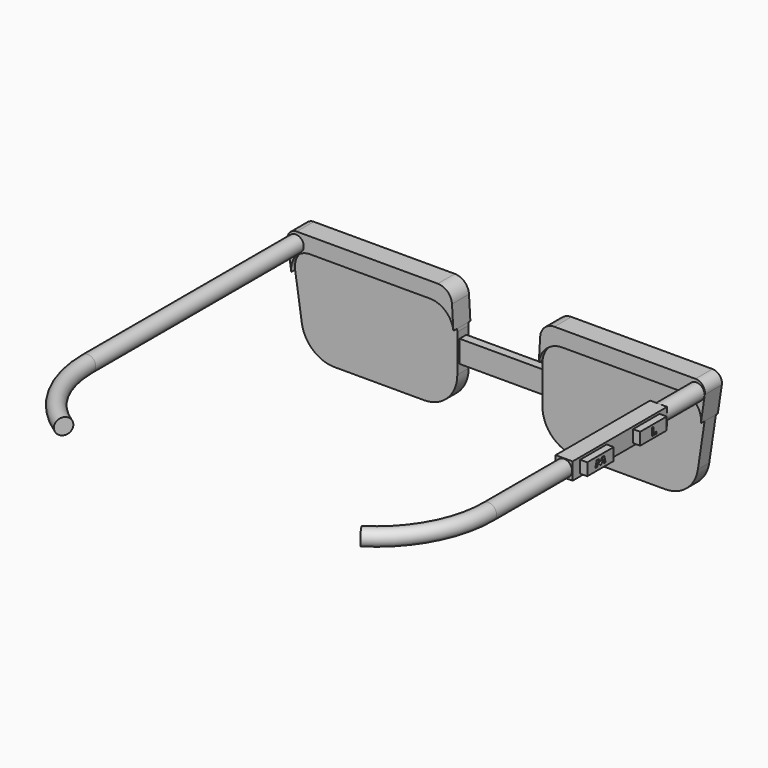
from build123d import *

# Parameters (mm, degrees)
F1_DEPTH      = 3.81
F0_W          = 22.86
F0_H          = 5.969
F2_DEPTH      = 3.048
F3_DEPTH      = 0.762
F5_DEPTH      = 1.27
F5_DEPTH_BACK = 4.445
F6_R          = 2.159
F7_DEPTH      = 69.85
F8_DEPTH      = 12.7
F10_DEPTH     = 31.75
F11_R         = 2.159
F12_DEPTH     = 25.4
F13_R         = 2.286
F14_DEPTH     = 1.27
F16_DEPTH     = 0.762
F18_DEPTH     = 0.381
F19_DEPTH     = 5.08
F21_W         = 5.3975
F21_H         = 1.651
F21_W_2       = 3.4925
F22_DEPTH     = 1.905
F23_W         = 1.016
F23_H         = 0.508
F24_DEPTH     = 0.635
F26_DEPTH     = 0.635
F27_R         = 2.159
F30_R         = 2.159


with BuildPart() as f1:
    # F0 (on Front) → F1 (new body)
    with BuildSketch(Plane.XZ):
        with BuildLine():
            Line((-22.8348751962, 50.0262716477), (-55.0360430985, 50.0262716477))
            ThreePointArc((-55.0360430985, 50.0262716477), (-58.8853633674, 48.2612578419), (-60.0598397711, 44.1927021468))
            Line((-60.0598397711, 44.1927021468), (-58.2605632022, 32.1975250211))
            ThreePointArc((-58.2605632022, 32.1975250211), (-55.2701448651, 26.7799611772), (-49.4689190252, 24.6262716477))
            Line((-49.4689190252, 24.6262716477), (-25.3748751962, 24.6262716477))
            ThreePointArc((-25.3748751962, 24.6262716477), (-19.0886959115, 27.2300923629), (-16.4848751962, 33.5162716477))
            Line((-16.4848751962, 33.5162716477), (-16.4848751962, 35.8022716477))
            Line((-16.4848751962, 35.8022716477), (-16.4848751962, 41.7712716477))
            Line((-16.4848751962, 41.7712716477), (-16.4848751962, 43.6762716477))
            ThreePointArc((-16.4848751962, 43.6762716477), (-18.3447471357, 48.1663997082), (-22.8348751962, 50.0262716477))
        make_face()
    extrude(amount=-F1_DEPTH)


with BuildPart() as f1b:
    # F0 (on Front) → F1, piece 2 (new body)
    with BuildSketch(Plane.XZ):
        with BuildLine():
            Line((6.3751248038, 43.6762716477), (6.3751248038, 41.7712716477))
            Line((6.3751248038, 41.7712716477), (6.3751248038, 35.8022716477))
            Line((6.3751248038, 35.8022716477), (6.3751248038, 33.5162716477))
            ThreePointArc((6.3751248038, 33.5162716477), (8.978945519, 27.2300923629), (15.2651248038, 24.6262716477))
            Line((15.2651248038, 24.6262716477), (39.3591686328, 24.6262716477))
            ThreePointArc((39.3591686328, 24.6262716477), (45.1603944727, 26.7799611772), (48.1508128098, 32.1975250211))
            Line((48.1508128098, 32.1975250211), (49.9500893786, 44.1927021468))
            ThreePointArc((49.9500893786, 44.1927021468), (48.7756129749, 48.2612578419), (44.9262927061, 50.0262716477))
            Line((44.9262927061, 50.0262716477), (12.7251248038, 50.0262716477))
            ThreePointArc((12.7251248038, 50.0262716477), (8.2349967432, 48.1663997082), (6.3751248038, 43.6762716477))
        make_face()
    extrude(amount=-F1_DEPTH)


with BuildPart() as f2:
    # F0 (on Front) → F2 (new body)
    with BuildSketch(Plane.XZ):
        with Locations((-5.0548751962, 38.7867716477)):
            Rectangle(F0_W, F0_H)
    extrude(amount=-F2_DEPTH)

    # F3 (cut): a face of the model
    f3_faces = [f2.faces().sort_by_distance(p)[0] for p in [
        (-5.0548751962, 0, 38.7867716477),
    ]]
    extrude(f3_faces, amount=-F3_DEPTH, mode=Mode.SUBTRACT)

    # F13 (on face) → F14 (cut)
    with BuildSketch(Plane(origin=(0, 3.048, 0), x_dir=(-1, 0, 0), z_dir=(0, 1, 0))):
        with Locations((5.0548751962, 38.7867716477)):
            Circle(F13_R)
    extrude(amount=-F14_DEPTH, mode=Mode.SUBTRACT)

    # F15 (on face) → F16 (join)
    with BuildSketch(Plane(origin=(0, 1.778, 0), x_dir=(-1, 0, 0), z_dir=(0, 1, 0))):
        Polygon((6.3248751962, 37.5182032585), (6.3248751962, 38.7867716477), (6.3248751962, 40.0567716477), (3.7975497544, 40.0567716477), (3.7975497544, 37.5182032585), align=None)
    extrude(amount=F16_DEPTH)

    # F17 (on face) → F18 (cut)
    with BuildSketch(Plane(origin=(0, 2.54, 0), x_dir=(-1, 0, 0), z_dir=(0, 1, 0))):
        Polygon((5.0427413614, 37.9825571542), (5.7490670054, 38.3690258498), (5.7675381194, 39.1739561486), (5.0796835892, 39.592417752), (4.3733579452, 39.2059490565), (4.3548868312, 38.4010187576), align=None)
    extrude(amount=-F18_DEPTH, mode=Mode.SUBTRACT)


with BuildPart() as f5:
    # F4 (on Front) → F5 (new body, two sides)
    with BuildSketch(Plane.XZ) as f5_sk:
        with BuildLine():
            ThreePointArc((-60.0598397711, 44.1927021468), (-58.8853633674, 48.2612578419), (-55.0360430985, 50.0262716477))
            Line((-55.0360430985, 50.0262716477), (-22.8348751962, 50.0262716477))
            ThreePointArc((-22.8348751962, 50.0262716477), (-18.6209529466, 48.4265726144), (-16.530182618, 44.4334714191))
            Line((-16.530182618, 44.4334714191), (-16.9026220807, 50.6578617088))
            ThreePointArc((-16.9026220807, 50.6578617088), (-18.0934385378, 53.2036623345), (-20.7058198953, 54.240295492))
            Line((-20.7058198953, 54.240295492), (-58.617562724, 54.240295492))
            ThreePointArc((-58.617562724, 54.240295492), (-60.5422228584, 53.3577885891), (-61.1294610603, 51.3235107415))
            Line((-61.1294610603, 51.3235107415), (-60.0598397711, 44.1927021468))
        make_face()
    extrude(amount=F5_DEPTH)
    extrude(f5_sk.sketch, amount=-F5_DEPTH_BACK)

    # F6 (on face) → F7 (join)
    with BuildSketch(Plane.XZ.offset(1.27)):
        with Locations((-58.8853633674, 51.3235107415)):
            Circle(F6_R)
    extrude(amount=F7_DEPTH)

    # F32: sweep along a path in F31
    with BuildLine(Plane.XY) as f32_path:
        ThreePointArc((-58.8853633674, -71.12), (-55.2003530631, -85.5832963729), (-45.043840045, -96.52))
    # F30 (on face) → F32 (sweep)
    with BuildSketch(Plane.XZ.offset(71.12)):
        with Locations((-58.8853633674, 51.3235107415)):
            Circle(F30_R)
    sweep(path=f32_path.line)


with BuildPart() as f5b:
    # F4 (on Front) → F5, piece 2 (new body, two sides)
    with BuildSketch(Plane.XZ) as f5_2_sk:
        with BuildLine():
            ThreePointArc((6.4204322255, 44.4334714191), (8.5112025542, 48.4265726144), (12.7251248038, 50.0262716477))
            Line((12.7251248038, 50.0262716477), (44.9262927061, 50.0262716477))
            ThreePointArc((44.9262927061, 50.0262716477), (48.7756129749, 48.2612578419), (49.9500893786, 44.1927021468))
            Line((49.9500893786, 44.1927021468), (51.0197106679, 51.3235107415))
            ThreePointArc((51.0197106679, 51.3235107415), (50.432472466, 53.3577885891), (48.5078123316, 54.240295492))
            Line((48.5078123316, 54.240295492), (10.5960695028, 54.240295492))
            ThreePointArc((10.5960695028, 54.240295492), (7.9836881454, 53.2036623345), (6.7928716882, 50.6578617088))
            Line((6.7928716882, 50.6578617088), (6.4204322255, 44.4334714191))
        make_face()
    extrude(amount=F5_DEPTH)
    extrude(f5_2_sk.sketch, amount=-F5_DEPTH_BACK)


with BuildPart() as f8:
    # F6 (on face) → F8 (new body)
    with BuildSketch(Plane.XZ.offset(1.27)):
        with Locations((48.7756129749, 51.3235107415)):
            Circle(F6_R)
    extrude(amount=F8_DEPTH)

    # F9 (on face) → F10 (join)
    with BuildSketch(Plane.XZ.offset(13.97)):
        with BuildLine():
            Line((46.4896129749, 51.3235107415), (46.6166129749, 51.3235107415))
            ThreePointArc((46.6166129749, 51.3235107415), (48.7756129749, 53.4825107415), (50.9346129749, 51.3235107415))
            ThreePointArc((50.9346129749, 51.3235107415), (50.3022565155, 49.7968672009), (48.7756129749, 49.1645107415))
            Line((48.7756129749, 49.1645107415), (48.7756129749, 49.0375107415))
            Line((48.7756129749, 49.0375107415), (51.0616129749, 49.0375107415))
            Line((51.0616129749, 49.0375107415), (51.0616129749, 53.6095107415))
            Line((51.0616129749, 53.6095107415), (46.4896129749, 53.6095107415))
            Line((46.4896129749, 53.6095107415), (46.4896129749, 51.3235107415))
        make_face()
        with BuildLine():
            Line((46.6166129749, 51.3235107415), (48.7756129749, 51.3235107415))
            Line((48.7756129749, 51.3235107415), (48.7756129749, 49.1645107415))
            ThreePointArc((48.7756129749, 49.1645107415), (50.3022565155, 49.7968672009), (50.9346129749, 51.3235107415))
            ThreePointArc((50.9346129749, 51.3235107415), (48.7756129749, 53.4825107415), (46.6166129749, 51.3235107415))
        make_face()
        with BuildLine():
            Line((48.7756129749, 49.1645107415), (48.7756129749, 51.3235107415))
            Line((48.7756129749, 51.3235107415), (46.6166129749, 51.3235107415))
            ThreePointArc((46.6166129749, 51.3235107415), (47.2489694344, 49.7968672009), (48.7756129749, 49.1645107415))
        make_face()
        with BuildLine():
            ThreePointArc((48.7756129749, 49.1645107415), (47.2489694344, 49.7968672009), (46.6166129749, 51.3235107415))
            Line((46.6166129749, 51.3235107415), (46.4896129749, 51.3235107415))
            Line((46.4896129749, 51.3235107415), (46.4896129749, 49.0375107415))
            Line((46.4896129749, 49.0375107415), (48.7756129749, 49.0375107415))
            Line((48.7756129749, 49.0375107415), (48.7756129749, 49.1645107415))
        make_face()
    extrude(amount=F10_DEPTH)

    # F11 (on face) → F12 (join)
    with BuildSketch(Plane.XZ.offset(45.72)):
        with Locations((48.7756129749, 51.3235107415)):
            Circle(F11_R)
    extrude(amount=F12_DEPTH)


with BuildPart() as f19:
    # F19 (new): a face of the model
    f19_faces = [f8.part.faces().sort_by_distance(p)[0] for p in [
        (48.7756129749, -71.12, 51.3235107415),
    ]]
    extrude(f19_faces, amount=F19_DEPTH)


with BuildPart() as f22:
    # F21 (on face) → F22 (new body)
    with BuildSketch(Plane.YZ.offset(51.0616129749)):
        with Locations((-40.48125, 52.1490107415)):
            Rectangle(F21_W, F21_H)
        with Locations((-40.48125, 50.4980107415)):
            Rectangle(F21_W, F21_H)
        with Locations((-36.03625, 52.1490107415)):
            Rectangle(F21_W_2, F21_H)
        with Locations((-36.03625, 50.4980107415)):
            Rectangle(F21_W_2, F21_H)
    extrude(amount=F22_DEPTH)

    # F25 (on face) → F26 (cut)
    with BuildSketch(Plane.YZ.offset(52.9666129749)):
        Polygon((-38.735, 50.4724252605), (-38.735, 51.3235107415), (-39.243, 52.1856099367), (-40.005, 52.1856099367), (-40.4775483483, 50.4724252605), (-39.8679483483, 50.4724252605), (-39.5686626434, 51.3235107415), align=None)
        Polygon((-38.227, 52.1856099367), (-38.735, 51.3235107415), (-38.735, 50.4724252605), (-37.866127559, 51.3235107415), (-37.598908645, 50.4724252605), (-36.989308645, 50.4724252605), (-37.465, 52.1856099367), align=None)
    extrude(amount=-F26_DEPTH, mode=Mode.SUBTRACT)


with BuildPart() as f22b:
    # F21 (on face) → F22, piece 2 (new body)
    with BuildSketch(Plane.YZ.offset(51.0616129749)):
        with Locations((-23.65375, 52.1490107415)):
            Rectangle(F21_W_2, F21_H)
        with Locations((-23.65375, 50.4980107415)):
            Rectangle(F21_W_2, F21_H)
        with Locations((-19.20875, 52.1490107415)):
            Rectangle(F21_W, F21_H)
        with Locations((-19.20875, 50.4980107415)):
            Rectangle(F21_W, F21_H)
    extrude(amount=F22_DEPTH)

    # F23 (on face) → F24 (cut)
    with BuildSketch(Plane.YZ.offset(52.9666129749)):
        Polygon((-20.955, 50.8147187965), (-20.955, 52.3387187965), (-21.463, 52.3387187965), (-21.463, 50.3067187965), (-20.955, 50.3067187965), align=None)
        with Locations((-20.447, 50.5607187965)):
            Rectangle(F23_W, F23_H)
    extrude(amount=-F24_DEPTH, mode=Mode.SUBTRACT)


with BuildPart() as f29:
    # F29: sweep along a path in F28
    with BuildLine(Plane.XY) as f29_path:
        ThreePointArc((34.9340896526, -96.52), (45.0906026707, -85.5832963729), (48.7756129749, -71.12))
    # F27 (on face) → F29 (sweep)
    with BuildSketch(Plane.XZ.offset(71.12)):
        with Locations((48.7756129749, 51.3235107415)):
            Circle(F27_R)
    sweep(path=f29_path.line)


solid = Compound([f1.part, f1b.part, f2.part, f5.part, f5b.part, f8.part, f22.part, f22b.part, f29.part])
